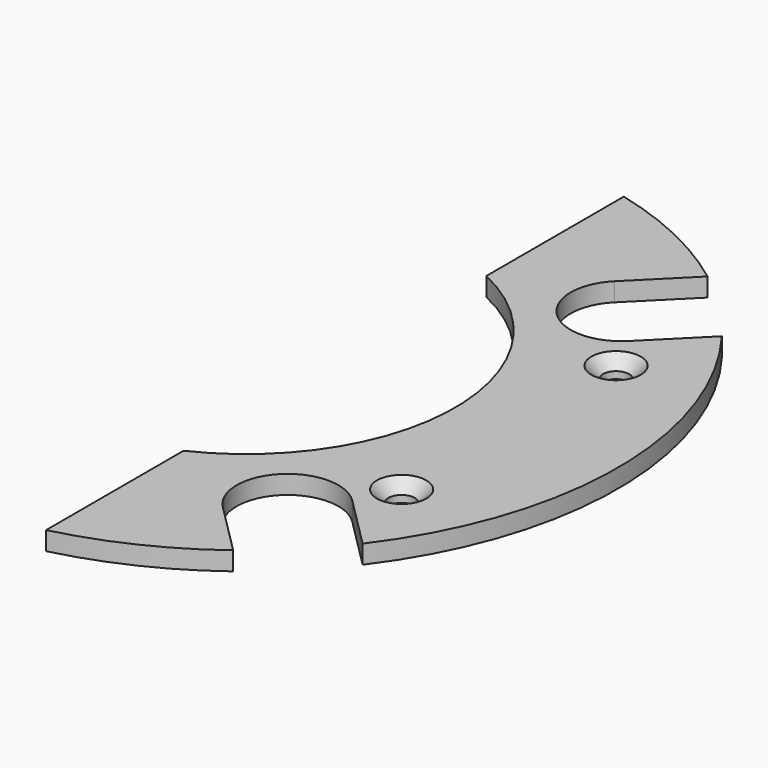
from build123d import *

# Parameters (mm, degrees)
F1_DEPTH       = 3.2
F3_D           = 4.5
F3_CSINK_D     = 8.5
F3_CSINK_ANGLE = 90


with BuildPart() as f1:
    # F0 (on Top) → F1 (new body)
    with BuildSketch(Plane.XY):
        with BuildLine():
            ThreePointArc((15.339506, 32.568383), (36, 0), (15.339506, -32.568383))
            Line((15.339506, -32.568383), (15.339506, -62.134528))
            ThreePointArc((15.339506, -62.134528), (27.557561, -57.763144), (38.642702, -51.017071))
            Line((38.642702, -51.017071), (29.73384, -42.108209))
            ThreePointArc((29.73384, -42.108209), (29.73384, -29.73384), (42.108209, -29.73384))
            Line((42.108209, -29.73384), (51.017071, -38.642702))
            ThreePointArc((51.017071, -38.642702), (64, 0), (51.017071, 38.642702))
            Line((51.017071, 38.642702), (42.108209, 29.73384))
            ThreePointArc((42.108209, 29.73384), (29.73384, 29.73384), (29.73384, 42.108209))
            Line((29.73384, 42.108209), (38.642702, 51.017071))
            ThreePointArc((38.642702, 51.017071), (27.557561, 57.763144), (15.339506, 62.134528))
            Line((15.339506, 62.134528), (15.339506, 32.568383))
        make_face()
    extrude(amount=-F1_DEPTH)

    # F3 (through all)
    with Locations(Plane.XY):
        with Locations((45.263131, 23.062717), (45.263131, -23.062717)):
            CounterSinkHole(F3_D / 2, F3_CSINK_D / 2, counter_sink_angle=F3_CSINK_ANGLE)


solid = f1.part
